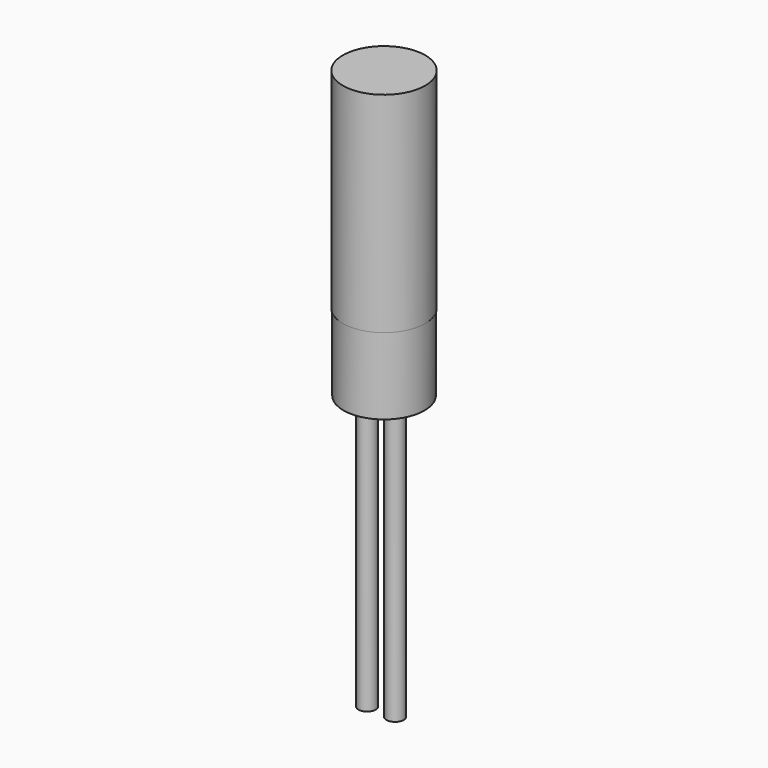
from build123d import *

# Parameters (mm, degrees)
F0_R     = 3.683
F1_DEPTH = 6.985
F2_R     = 0.7874
F3_DEPTH = 25.4
F4_R     = 3.7465
F5_DEPTH = 19.05


with BuildPart() as f1:
    # F0 (on Top) → F1 (new body)
    with BuildSketch(Plane.XY):
        Circle(F0_R)
    extrude(amount=-F1_DEPTH)

    # F2 (on face) → F3 (join)
    with BuildSketch(Plane(origin=(0, 0, -6.985), x_dir=(1, 0, 0), z_dir=(0, 0, -1))):
        with BuildLine():
            ThreePointArc((1.7907, 0), (1.0033, 0.7874), (0.2159, 0))
            ThreePointArc((0.2159, 0), (1.0033, -0.7874), (1.7907, 0))
        make_face()
        with Locations((-1.5367, 0)):
            Circle(F2_R)
    extrude(amount=F3_DEPTH)

    # F4 (on face) → F5 (join)
    with BuildSketch(Plane.XY):
        Circle(F4_R)
    extrude(amount=F5_DEPTH)


solid = f1.part
